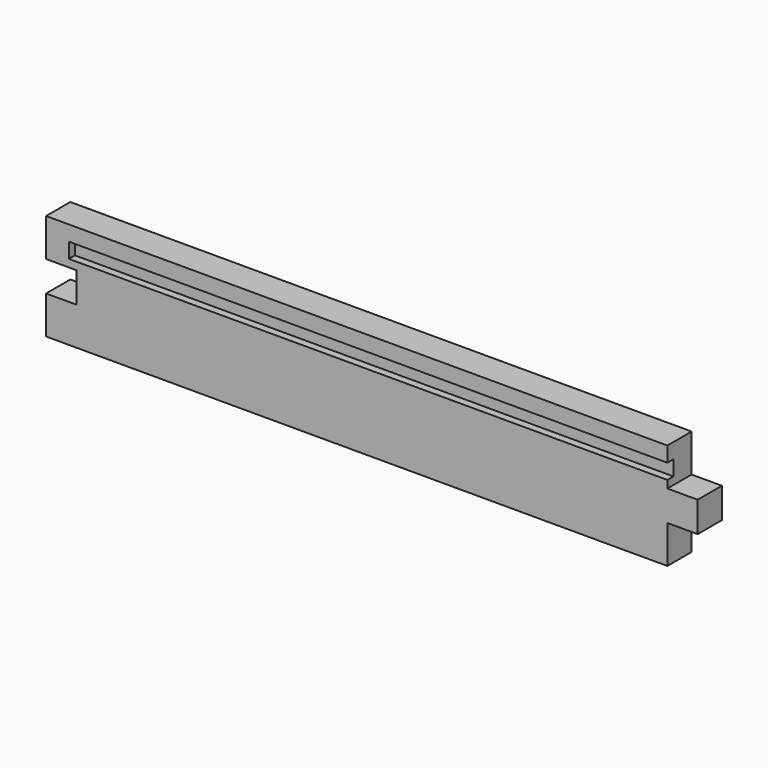
from build123d import *

# Parameters (mm, degrees)
F0_W          = 430
F0_H          = 20
F1_DEPTH      = 70
F2_W          = 5
F2_H          = 10
F3_DEPTH      = 415
F3_DEPTH_BACK = 15
F4_W          = 20
F4_H          = 25
F4_H_2        = 20
F5_DEPTH      = 20.001


with BuildPart() as f1:
    # F0 (on Top) → F1 (new body)
    with BuildSketch(Plane.XY):
        with Locations((-189.742246, -17.948127)):
            Rectangle(F0_W, F0_H)
    extrude(amount=F1_DEPTH)

    # F2 (on face) → F3 (cut, two sides)
    with BuildSketch(Plane.YZ.offset(25.257754)) as f3_sk:
        with Locations((-25.448127, 55)):
            Rectangle(F2_W, F2_H)
    extrude(amount=-F3_DEPTH, mode=Mode.SUBTRACT)
    extrude(f3_sk.sketch, amount=-F3_DEPTH_BACK, mode=Mode.SUBTRACT)

    # F4 (on face) → F5 (cut, through all)
    with BuildSketch(Plane(origin=(0, -7.948127, 0), x_dir=(-1, 0, 0), z_dir=(0, 1, 0))):
        with Locations((-15.257754, 57.5)):
            Rectangle(F4_W, F4_H)
        with Locations((-15.257754, 12.5)):
            Rectangle(F4_W, F4_H)
        with Locations((394.742246, 35)):
            Rectangle(F4_W, F4_H_2)
    extrude(amount=-F5_DEPTH, mode=Mode.SUBTRACT)


solid = f1.part
